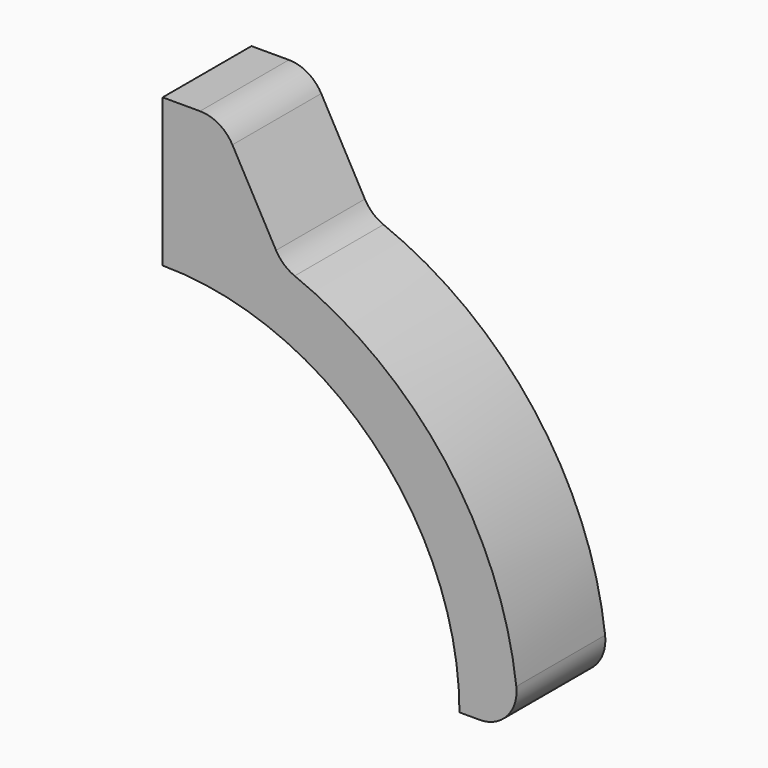
from build123d import *

# Parameters (mm, degrees)
F1_DEPTH = 15


with BuildPart() as f1:
    # F0 (on Front) → F1 (new body)
    with BuildSketch(Plane.XZ):
        with BuildLine():
            ThreePointArc((0, 40.1), (28.354982, 28.354982), (40.1, 0))
            Line((40.1, 0), (42.808995, 0))
            ThreePointArc((42.808995, 0), (46.54398, 1.675863), (47.775236, 5.580046))
            ThreePointArc((47.775236, 5.580046), (38.187671, 29.245715), (17.838656, 44.669815))
            ThreePointArc((17.838656, 44.669815), (16.387117, 45.562084), (15.31947, 46.889954))
            Line((15.31947, 46.889954), (9.427711, 57.523294))
            ThreePointArc((9.427711, 57.523294), (7.592257, 59.407927), (5.054194, 60.1))
            Line((5.054194, 60.1), (0, 60.1))
            Line((0, 60.1), (0, 40.1))
        make_face()
    extrude(amount=F1_DEPTH)


solid = f1.part
